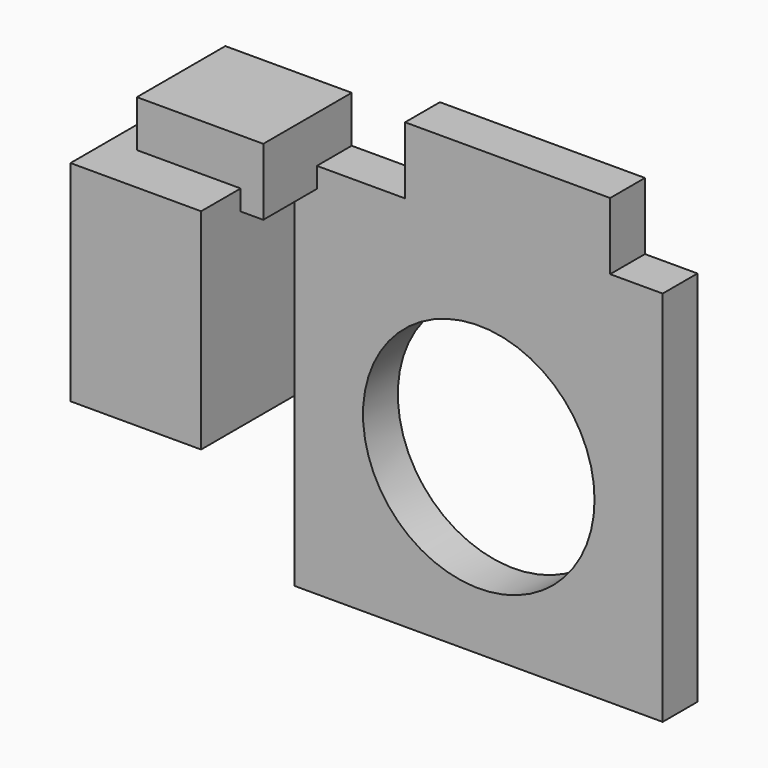
from build123d import *

# Parameters (mm, degrees)
F0_W     = 84.6221074462
F0_H     = 86.6273678839
F0_R     = 26.5937510692
F1_DEPTH = 10
F2_W     = 26.760289222
F2_H     = 48.1868900824
F2_W_2   = 10
F3_DEPTH = 30
F4_W     = 29.033318162
F4_H     = 15.370901674
F5_DEPTH = 25.4
F6_W     = 47.1061710268
F6_H     = 18.6824947596
F7_DEPTH = 10


with BuildPart() as f1:
    # F0 (on Front) → F1 (new body)
    with BuildSketch(Plane.XZ):
        with Locations((5.1468424499, -4.3447371572)):
            Rectangle(F0_W, F0_H)
        with Locations((5.2136839367, -7.8205261379)):
            Circle(F0_R, mode=Mode.SUBTRACT)
        with Locations((5.1468424499, -4.3447371572)):
            Rectangle(F0_W, F0_H)
        with Locations((5.2136839367, -7.8205261379)):
            Circle(F0_R, mode=Mode.SUBTRACT)
    extrude(amount=F1_DEPTH)

    # F2 (on face) → F3 (join)
    with BuildSketch(Plane(origin=(-37.1642112732, 0, 0), x_dir=(0, -1, 0), z_dir=(-1, 0, 0))):
        with Locations((23.380144611, 14.8755017435)):
            Rectangle(F2_W, F2_H)
        with Locations((5, 14.8755017435)):
            Rectangle(F2_W_2, F2_H)
    extrude(amount=F3_DEPTH)

    # F4 (on Front) → F5 (join)
    with BuildSketch(Plane.XZ):
        with Locations((-46.4909225702, 41.9942829758)):
            Rectangle(F4_W, F4_H)
        with Locations((-46.4909225702, 41.9942829758)):
            Rectangle(F4_W, F4_H)
    extrude(amount=F5_DEPTH)

    # F6 (on Front) → F7 (join)
    with BuildSketch(Plane.XZ):
        with Locations((11.8363192305, 45.0233183801)):
            Rectangle(F6_W, F6_H)
    extrude(amount=F7_DEPTH)


solid = f1.part
